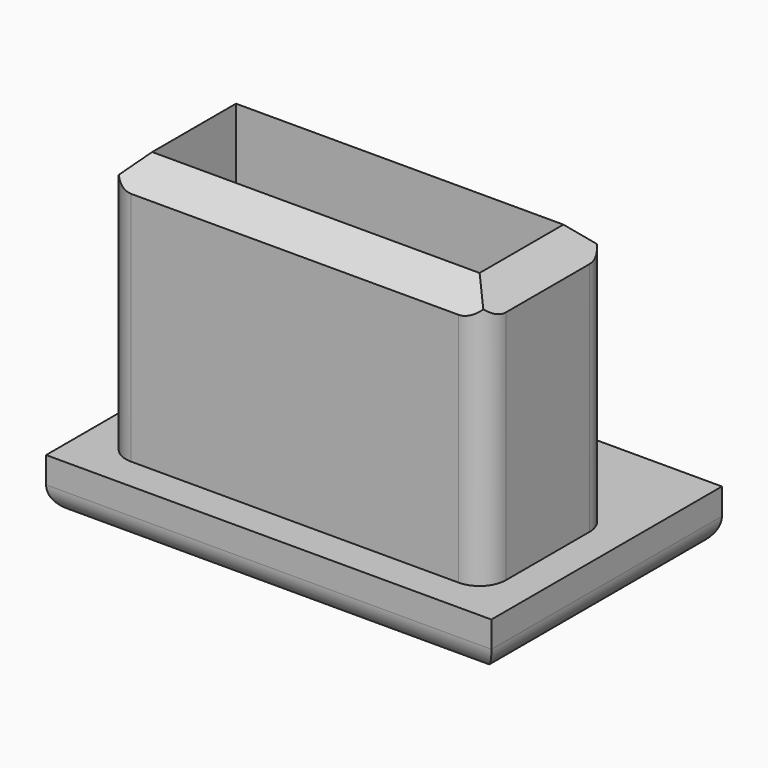
from build123d import *

# Parameters (mm, degrees)
F0_W      = 34
F0_H      = 22
F1_DEPTH  = 4
F2_W      = 29
F2_H      = 12
F3_DEPTH  = 20
F4_SIZE   = 2
F3_FACE_W = 25
F3_FACE_H = 8
F5_DEPTH  = 20
F6_R      = 2
F7_R      = 2


with BuildPart() as f1:
    # F0 (on Top) → F1 (new body)
    with BuildSketch(Plane.XY):
        Rectangle(F0_W, F0_H)
    extrude(amount=F1_DEPTH)

    # F2 (on face) → F3 (join)
    with BuildSketch(Plane.XY.offset(4)):
        with Locations((0, -2.5)):
            Rectangle(F2_W, F2_H)
    extrude(amount=F3_DEPTH)

    # F4
    f4_edges = [f1.edges().sort_by_distance(p)[0] for p in [
        (0, 3.5, 24),
        (-14.5, -2.5, 24),
        (0, -8.5, 24),
        (14.5, -2.5, 24),
    ]]
    chamfer(f4_edges, length=F4_SIZE)

    # F3_face (on face) → F5 (cut)
    with BuildSketch(Plane(origin=(0, -2.5, 24), x_dir=(1, 0, 0), z_dir=(0, 0, 1))):
        Rectangle(F3_FACE_W, F3_FACE_H)
    extrude(amount=-F5_DEPTH, mode=Mode.SUBTRACT)

    # F6
    f6_edges = [f1.edges().sort_by_distance(p)[0] for p in [
        (0, -11, 0),
        (17, 0, 0),
        (-17, 0, 0),
        (0, 11, 0),
    ]]
    fillet(f6_edges, radius=F6_R)

    # F7
    f7_edges = [f1.edges().sort_by_distance(p)[0] for p in [
        (-14.5, -8.5, 13),
        (-14.5, 3.5, 13),
        (14.5, -8.5, 13),
        (14.5, 3.5, 13),
    ]]
    fillet(f7_edges, radius=F7_R)


solid = f1.part
